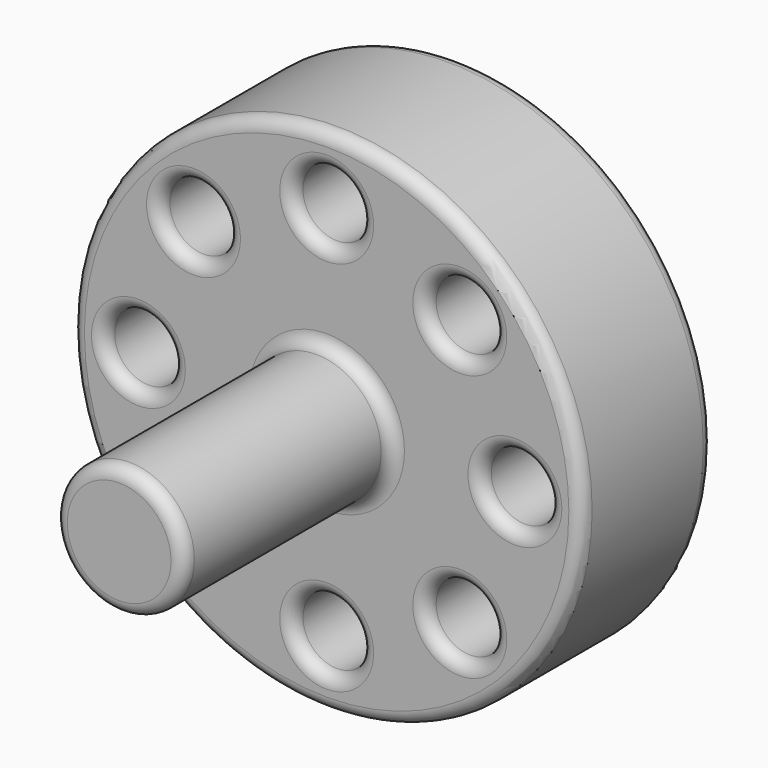
from build123d import *

# Parameters (mm, degrees)
F0_R     = 39.3531611254
F1_DEPTH = 25.4
F2_R     = 5.2405577027
F3_DEPTH = 28
F4_R     = 10
F5_DEPTH = 40
F6_R     = 2
F7_R     = 2
F8_R     = 2
F9_R     = 2


with BuildPart() as f1:
    # F0 (on Front) → F1 (new body)
    with BuildSketch(Plane.XZ):
        Circle(F0_R)
    extrude(amount=F1_DEPTH)

    # F2 (on face) → F3 (cut)
    with BuildSketch(Plane.XZ.offset(25.4)):
        with Locations((0, 29.0355216712)):
            Circle(F2_R)
        with Locations((20.531214269, 20.531214269)):
            Circle(F2_R)
        with Locations((29.0355216712, 0)):
            Circle(F2_R)
        with Locations((20.531214269, -20.531214269)):
            Circle(F2_R)
        with Locations((0, -29.0355216712)):
            Circle(F2_R)
        with Locations((-20.531214269, -20.531214269)):
            Circle(F2_R)
        with Locations((-29.0355216712, 0)):
            Circle(F2_R)
        with Locations((-20.531214269, 20.531214269)):
            Circle(F2_R)
    extrude(amount=-F3_DEPTH, mode=Mode.SUBTRACT)

    # F4 (on face) → F5 (join)
    with BuildSketch(Plane.XZ.offset(25.4)):
        Circle(F4_R)
    extrude(amount=F5_DEPTH)

    # F6
    f6_edges = [f1.edges().sort_by_distance(p)[0] for p in [
        (-10, -65.4, 0),
    ]]
    fillet(f6_edges, radius=F6_R)

    # F7
    f7_edges = [f1.edges().sort_by_distance(p)[0] for p in [
        (39.353161, -12.7, 0),
        (-39.353161, 0, 0),
        (-39.353161, -25.4, 0),
    ]]
    fillet(f7_edges, radius=F7_R)

    # F8
    f8_edges = [f1.edges().sort_by_distance(p)[0] for p in [
        (-37.353161, -25.4, 0),
        (-25.771772, -25.4, -20.531214),
        (-5.240558, -25.4, -29.035522),
        (15.290657, -25.4, -20.531214),
        (-34.276079, -25.4, 0),
        (-25.771772, -25.4, 20.531214),
        (-10, -25.4, 0),
        (23.794964, -25.4, 0),
        (-5.240558, -25.4, 29.035522),
        (15.290657, -25.4, 20.531214),
    ]]
    fillet(f8_edges, radius=F8_R)

    # F9
    f9_edges = [f1.edges().sort_by_distance(p)[0] for p in [
        (-37.353161, 0, 0),
        (-25.771772, 0, -20.531214),
        (-5.240558, 0, -29.035522),
        (15.290657, 0, -20.531214),
        (-34.276079, 0, 0),
        (-25.771772, 0, 20.531214),
        (23.794964, 0, 0),
        (-5.240558, 0, 29.035522),
        (15.290657, 0, 20.531214),
    ]]
    fillet(f9_edges, radius=F9_R)


solid = f1.part
